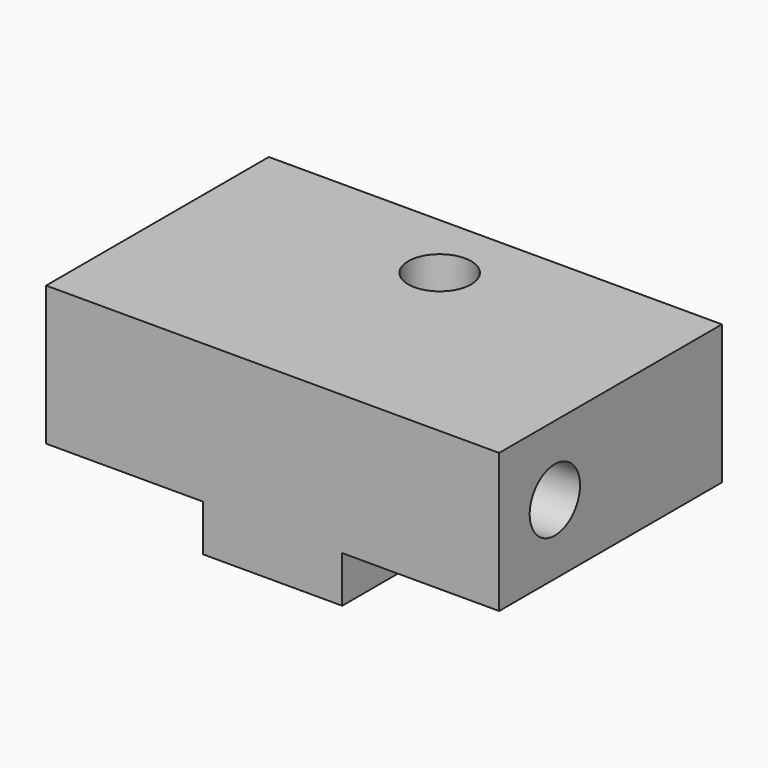
from build123d import *

# Parameters (mm, degrees)
F0_W     = 31
F0_H     = 19.05
F0_R     = 2.15265
F1_DEPTH = 9.525
F2_R     = 2.15265
F3_DEPTH = 31
F4_W     = 9.525
F4_H     = 9.525
F5_DEPTH = 3.175


with BuildPart() as f1:
    # F0 (on Top) → F1 (new body)
    with BuildSketch(Plane.XY):
        with Locations((15.5, -9.525)):
            Rectangle(F0_W, F0_H)
        with Locations((15.5, -4.7625)):
            Circle(F0_R, mode=Mode.SUBTRACT)
    extrude(amount=F1_DEPTH)

    # F2 (on face) → F3 (cut, through all)
    with BuildSketch(Plane.YZ.offset(31)):
        with Locations((-14.2875, 4.7625)):
            Circle(F2_R)
    extrude(amount=-F3_DEPTH, mode=Mode.SUBTRACT)

    # F4 (on face) → F5 (join)
    with BuildSketch(Plane(origin=(0, 0, 0), x_dir=(1, 0, 0), z_dir=(0, 0, -1))):
        with Locations((15.5, 14.2875)):
            Rectangle(F4_W, F4_H)
    extrude(amount=F5_DEPTH)


solid = f1.part
